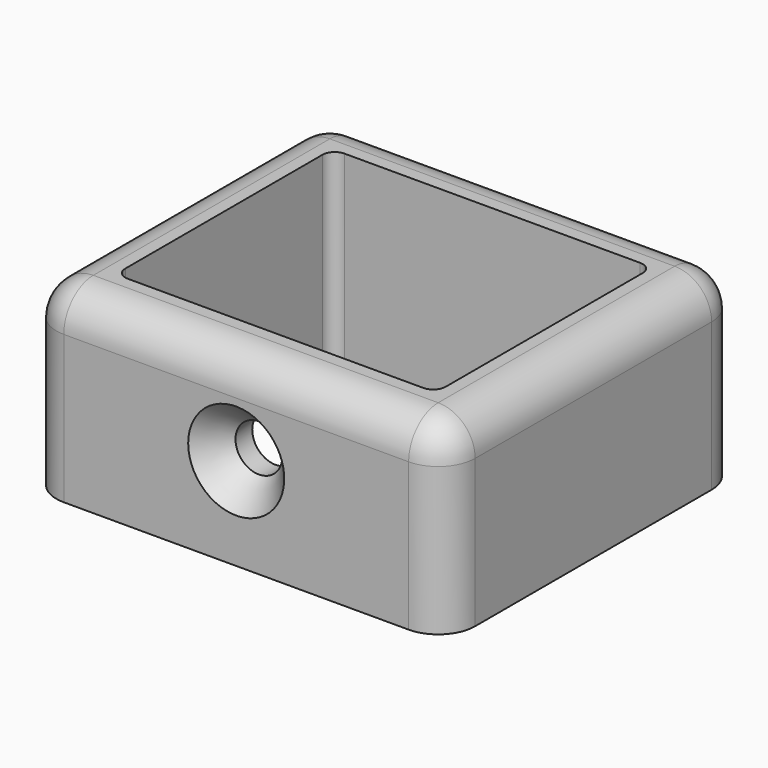
from build123d import *

# Parameters (mm, degrees)
F0_W           = 34
F0_H           = 30
F0_W_2         = 26
F0_H_2         = 22
F1_DEPTH       = 15
F3_D           = 3.7973
F3_DEPTH       = 5
F3_CSINK_D     = 7.7978
F3_CSINK_ANGLE = 82
F3_TIP         = 1.1408240143
F4_R           = 3
F5_R           = 1


with BuildPart() as f1:
    # F0 (on Top) → F1 (new body)
    with BuildSketch(Plane.XY):
        Rectangle(F0_W, F0_H)
        Rectangle(F0_W_2, F0_H_2, mode=Mode.SUBTRACT)
    extrude(amount=F1_DEPTH)

    # F3
    with Locations(Plane.XZ.offset(15)):
        with Locations((0, 7.5)):
            CounterSinkHole(F3_D / 2, F3_CSINK_D / 2, depth=F3_DEPTH, counter_sink_angle=F3_CSINK_ANGLE)
            with Locations((0, 0, -(F3_DEPTH + F3_TIP / 2))):  # 118° drill point
                Cone(0, F3_D / 2, F3_TIP, mode=Mode.SUBTRACT)

    # F4
    f4_edges = [f1.edges().sort_by_distance(p)[0] for p in [
        (-17, -15, 7.5),
        (17, -15, 7.5),
        (17, 15, 7.5),
        (-17, 15, 7.5),
        (0, -15, 15),
        (17, 0, 15),
        (0, 15, 15),
        (-17, 0, 15),
    ]]
    fillet(f4_edges, radius=F4_R)

    # F5
    f5_edges = [f1.edges().sort_by_distance(p)[0] for p in [
        (-13, -11, 7.5),
        (-13, 11, 7.5),
        (13, 11, 7.5),
        (13, -11, 7.5),
    ]]
    fillet(f5_edges, radius=F5_R)


solid = f1.part
